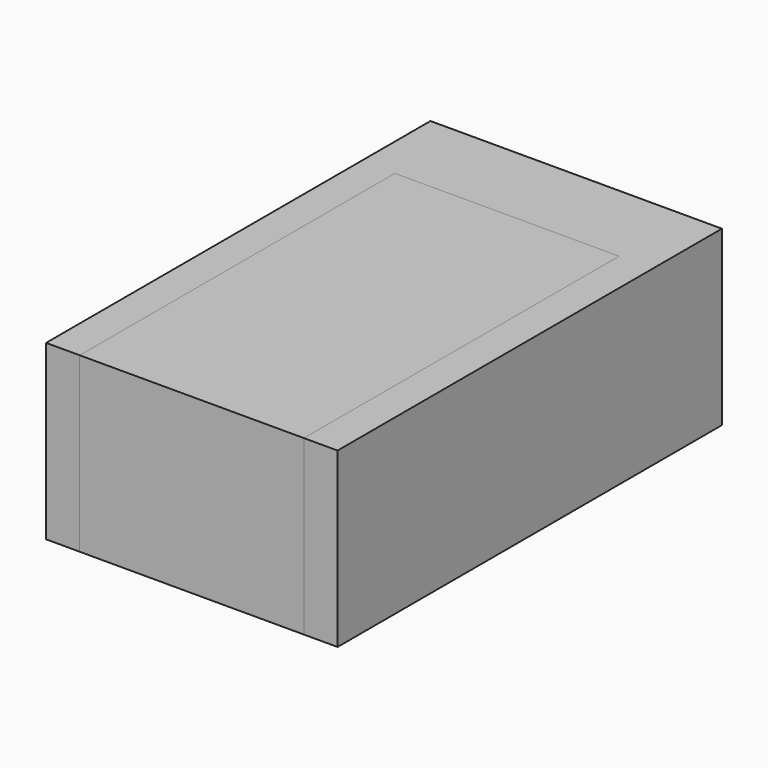
from build123d import *

# Parameters (mm, degrees)
F2_DEPTH = 22.75
F3_DEPTH = 17.5


with BuildPart() as f2:
    # F1 (on Right) → F2 (new body, symmetric)
    with BuildSketch(Plane.YZ):
        with BuildLine():
            Line((-37.5, -13.5), (24, -13.5))
            ThreePointArc((24, -13.5), (33.545941546, -9.545941546), (37.5, 0))
            ThreePointArc((37.5, 0), (33.545941546, 9.545941546), (24, 13.5))
            Line((24, 13.5), (-37.5, 13.5))
            Line((-37.5, 13.5), (-37.5, -13.5))
        make_face()
        with BuildLine():
            Line((24, -13.5), (37.5, -13.5))
            Line((37.5, -13.5), (37.5, 0))
            ThreePointArc((37.5, 0), (33.545941546, -9.545941546), (24, -13.5))
        make_face()
        with BuildLine():
            ThreePointArc((24, 13.5), (33.545941546, 9.545941546), (37.5, 0))
            Line((37.5, 0), (37.5, 13.5))
            Line((37.5, 13.5), (24, 13.5))
        make_face()
    extrude(amount=F2_DEPTH, both=True)


with BuildPart() as f3:
    # F1 (on Right) → F3 (new body, symmetric)
    with BuildSketch(Plane.YZ):
        with BuildLine():
            Line((-37.5, -13.5), (24, -13.5))
            ThreePointArc((24, -13.5), (33.545941546, -9.545941546), (37.5, 0))
            ThreePointArc((37.5, 0), (33.545941546, 9.545941546), (24, 13.5))
            Line((24, 13.5), (-37.5, 13.5))
            Line((-37.5, 13.5), (-37.5, -13.5))
        make_face()
    extrude(amount=F3_DEPTH, both=True)


solid = Compound([f2.part, f3.part])
